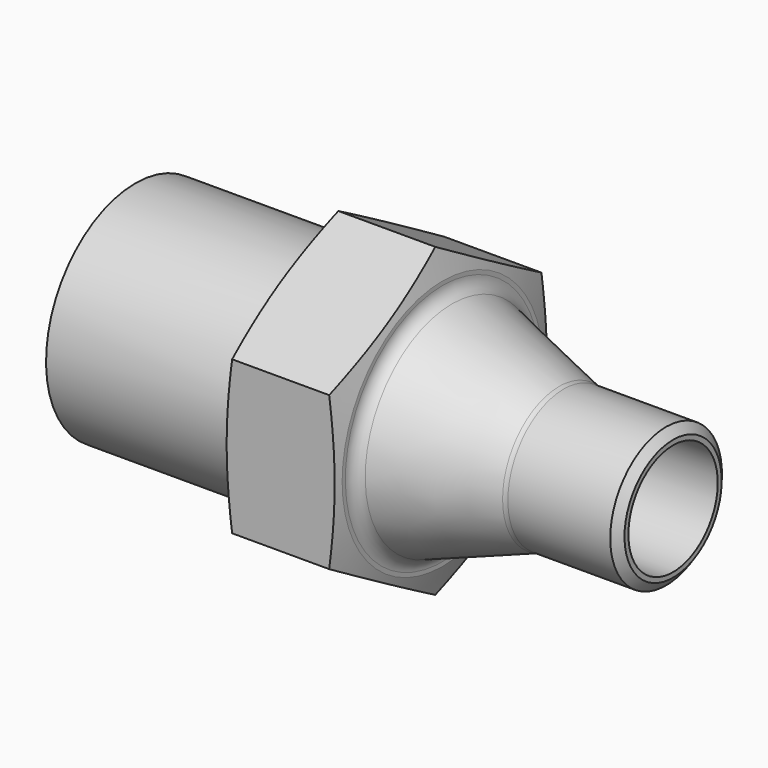
from build123d import *

# Parameters (mm, degrees)
F2_SIZE2 = 0.6516126864
F2_SIZE  = 0.5
F3_R     = 1
F4_R     = 12
F5_DEPTH = 25


with BuildPart() as f1:
    # F0 (on Front) → F1 (revolve)
    with BuildSketch(Plane.XZ):
        Polygon((-27.3038475773, 4), (0, 4), (0, 5), (-8, 5), (-16.5, 8), (-16.5, 12), (-24.5, 12), (-24.5, 8), (-38.5, 8), (-38.5, 7), align=None)
    revolve(axis=Axis((0.1931033472, 0, 0), (1, 0, 0)))

    # F2
    f2_edges = [f1.edges().sort_by_distance(p)[0] for p in [
        (0, 0, -5),
    ]]
    f2_side = f1.faces().sort_by_distance((-4, 0, -5))[0]
    chamfer(f2_edges, length=F2_SIZE, length2=F2_SIZE2, reference=f2_side)

    # F3
    f3_edges = [f1.edges().sort_by_distance(p)[0] for p in [
        (-16.5, 0, -8),
        (-8, 0, -5),
    ]]
    fillet(f3_edges, radius=F3_R)

    # F4 (on face) → F5 (cut)
    with BuildSketch(Plane(origin=(-24.5, 0, 0), x_dir=(0, -1, 0), z_dir=(-1, 0, 0))):
        Circle(F4_R)
        Polygon((-9.5, -5.4848275573), (-9.5, 5.4848275573), (0, 10.9696551146), (9.5, 5.4848275573), (9.5, -5.4848275573), (0, -10.9696551146), align=None, mode=Mode.SUBTRACT)
    extrude(amount=-F5_DEPTH, mode=Mode.SUBTRACT)

    # F6 (on Front) → F7 (revolve, cut)
    with BuildSketch(Plane.XZ):
        Polygon((-24.5, 13.6036825632), (-24.5, 10.9696551146), (-24.5, 9), (-23.266446975, 13.6036825632), align=None)
        Polygon((-17.733553025, 13.6036825632), (-16.5, 9), (-16.5, 10.9696551146), (-16.5, 13.6036825632), align=None)
    revolve(axis=Axis((5.1041673869, 0, 0), (1, 0, 0)), mode=Mode.SUBTRACT)


solid = f1.part
